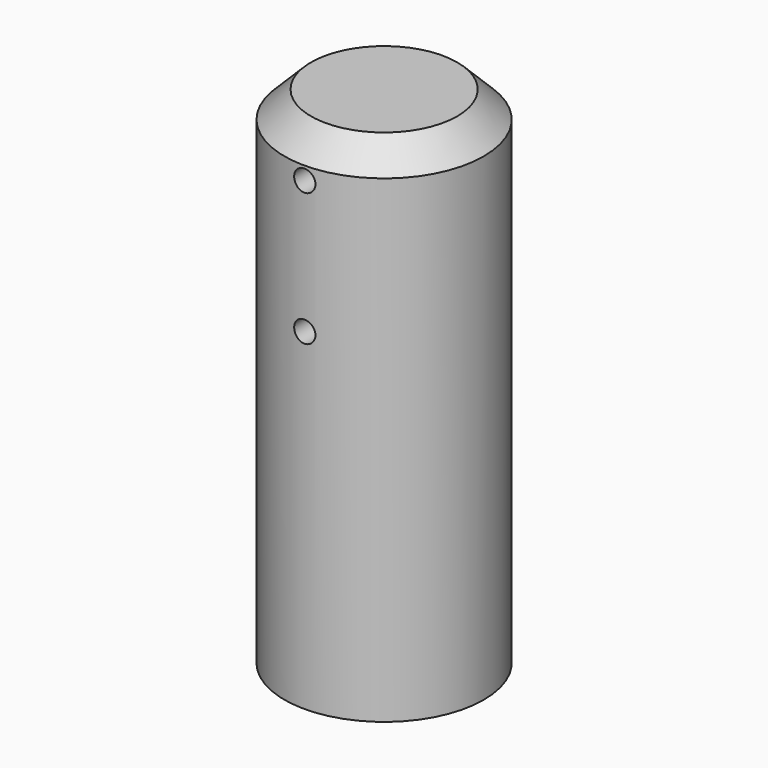
from build123d import *

# Parameters (mm, degrees)
F0_R     = 7.5
F1_DEPTH = 38
F3_R     = 0.8
F4_DEPTH = 15.001
F5_SIZE  = 2
F7_DEPTH = 23
F8_DEPTH = 7


with BuildPart() as f1:
    # F0 (on Top) → F1 (new body)
    with BuildSketch(Plane.XY):
        Circle(F0_R)
    extrude(amount=F1_DEPTH)

    # F3 (on offset) → F4 (cut, through all)
    with BuildSketch(Plane.XZ.offset(7.5)):
        with Locations((0, 35)):
            Circle(F3_R)
        with Locations((0, 25)):
            Circle(F3_R)
    extrude(amount=-F4_DEPTH, mode=Mode.SUBTRACT)

    # F5
    f5_edges = [f1.edges().sort_by_distance(p)[0] for p in [
        (-7.5, 0, 38),
    ]]
    chamfer(f5_edges, length=F5_SIZE)

    # F6 (on face) → F7 (cut)
    with BuildSketch(Plane(origin=(0, 0, 0), x_dir=(1, 0, 0), z_dir=(0, 0, -1))):
        with BuildLine():
            ThreePointArc((-1.596872, 2.3), (-1.297836, -2.481052), (2.8, 0))
            ThreePointArc((2.8, 0), (2.481052, 1.297836), (1.596872, 2.3))
            Line((1.596872, 2.3), (-1.596872, 2.3))
        make_face()
    extrude(amount=-F7_DEPTH, mode=Mode.SUBTRACT)

    # F6 (on face) → F8 (cut)
    with BuildSketch(Plane(origin=(0, 0, 0), x_dir=(1, 0, 0), z_dir=(0, 0, -1))):
        with BuildLine():
            Line((-1.596872, 2.3), (1.596872, 2.3))
            ThreePointArc((1.596872, 2.3), (0, 2.8), (-1.596872, 2.3))
        make_face()
    extrude(amount=-F8_DEPTH, mode=Mode.SUBTRACT)


solid = f1.part
